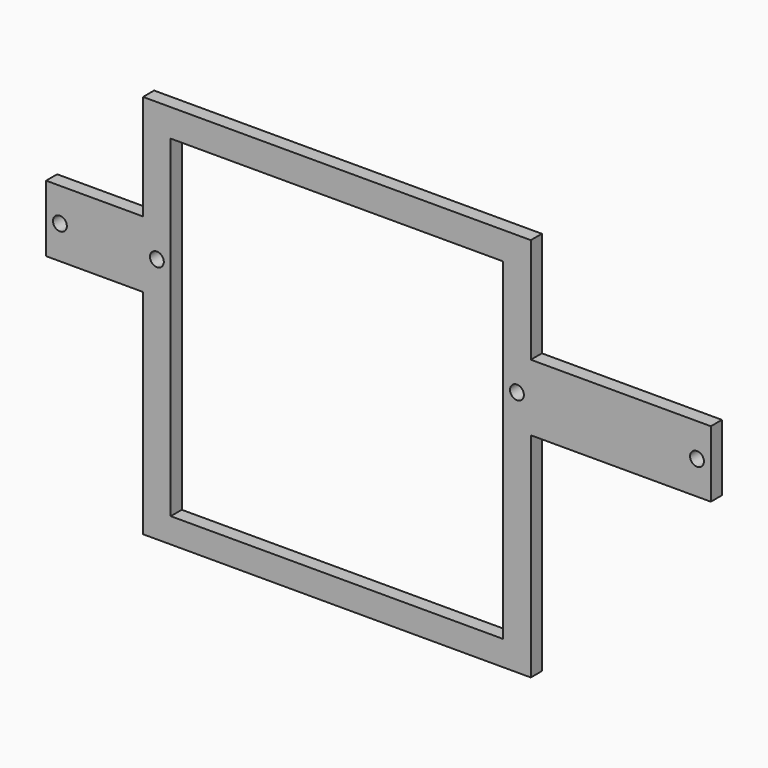
from build123d import *

# Parameters (mm, degrees)
BOX008_W          = 120
BOX008_H          = 30
BOX008_DEPTH      = 120
CYLINDER052_R     = 2.5
CYLINDER052_DEPTH = 10
CYLINDER053_R     = 2.5
CYLINDER053_DEPTH = 10
CYLINDER054_R     = 2.5
CYLINDER054_DEPTH = 10
CYLINDER055_R     = 2.5
CYLINDER055_DEPTH = 10
CYLINDER051_R     = 2.5
CYLINDER051_DEPTH = 10
CYLINDER056_R     = 2.5
CYLINDER056_DEPTH = 10
BOX001_W          = 240
BOX001_H          = 5
BOX001_DEPTH      = 24
BOX002_W          = 140
BOX002_H          = 5
BOX002_DEPTH      = 38
BOX003_W          = 140
BOX003_H          = 5
BOX003_DEPTH      = 77


with BuildPart() as gatewaycut:
    # Box008 → Box008 (new body)
    with BuildSketch(Plane(origin=(-75, -3.2, -111), x_dir=(1, 0, 0), z_dir=(0, 0, 1))):
        with Locations((60, 15)):
            Rectangle(BOX008_W, BOX008_H)
    extrude(amount=BOX008_DEPTH)


with BuildPart() as cylinder052:
    # Cylinder052 → Cylinder052 (new body)
    with BuildSketch(Plane(origin=(115, 0, -31), x_dir=(1, 0, 0), z_dir=(0, -1, 0))):
        Circle(CYLINDER052_R)
    extrude(amount=CYLINDER052_DEPTH)


with BuildPart() as cylinder053:
    # Cylinder053 → Cylinder053 (new body)
    with BuildSketch(Plane(origin=(-80, 0, -31), x_dir=(1, 0, 0), z_dir=(0, -1, 0))):
        Circle(CYLINDER053_R)
    extrude(amount=CYLINDER053_DEPTH)


with BuildPart() as cylinder054:
    # Cylinder054 → Cylinder054 (new body)
    with BuildSketch(Plane(origin=(50, 0, -31), x_dir=(1, 0, 0), z_dir=(0, -1, 0))):
        Circle(CYLINDER054_R)
    extrude(amount=CYLINDER054_DEPTH)


with BuildPart() as cylinder055:
    # Cylinder055 → Cylinder055 (new body)
    with BuildSketch(Plane(origin=(-45.75, 0, -56.3), x_dir=(1, 0, 0), z_dir=(0, -1, 0))):
        Circle(CYLINDER055_R)
    extrude(amount=CYLINDER055_DEPTH)


with BuildPart() as cylinder051:
    # Cylinder051 → Cylinder051 (new body)
    with BuildSketch(Plane(origin=(-115, 0, -31), x_dir=(1, 0, 0), z_dir=(0, -1, 0))):
        Circle(CYLINDER051_R)
    extrude(amount=CYLINDER051_DEPTH)


with BuildPart() as m3heatsetinserts001:
    # Cylinder056 → Cylinder056 (new body)
    with BuildSketch(Plane(origin=(-45.75, 0, -1.3), x_dir=(1, 0, 0), z_dir=(0, -1, 0))):
        Circle(CYLINDER056_R)
    extrude(amount=CYLINDER056_DEPTH)

    # Fusion018: union Cylinder052, Cylinder053, Cylinder054, Cylinder055, Cylinder051
    add(cylinder052.part)
    add(cylinder053.part)
    add(cylinder054.part)
    add(cylinder055.part)
    add(cylinder051.part)


with BuildPart() as m3heatsetinserts001_1:
    # Fusion018 placement: moved
    add(m3heatsetinserts001.part.moved(Location((0, 5.1, 0))))


with BuildPart() as cube:
    # Box001 → Box001 (new body)
    with BuildSketch(Plane(origin=(-120, 0, -43), x_dir=(1, 0, 0), z_dir=(0, 0, 1))):
        with Locations((120, 2.5)):
            Rectangle(BOX001_W, BOX001_H)
    extrude(amount=BOX001_DEPTH)


with BuildPart() as cube001:
    # Box002 → Box002 (new body)
    with BuildSketch(Plane(origin=(-85, 0, -19), x_dir=(1, 0, 0), z_dir=(0, 0, 1))):
        with Locations((70, 2.5)):
            Rectangle(BOX002_W, BOX002_H)
    extrude(amount=BOX002_DEPTH)


with BuildPart() as mainbase:
    # Box003 → Box003 (new body)
    with BuildSketch(Plane(origin=(-85, 0, -120), x_dir=(1, 0, 0), z_dir=(0, 0, 1))):
        with Locations((70, 2.5)):
            Rectangle(BOX003_W, BOX003_H)
    extrude(amount=BOX003_DEPTH)

    # Fusion013: union Cube, Cube001
    add(cube.part)
    add(cube001.part)

    # Cut003: cut M3HeatSetInserts001
    add(m3heatsetinserts001_1.part, mode=Mode.SUBTRACT)

    # Cut004: cut GatewayCut
    add(gatewaycut.part, mode=Mode.SUBTRACT)


solid = mainbase.part
